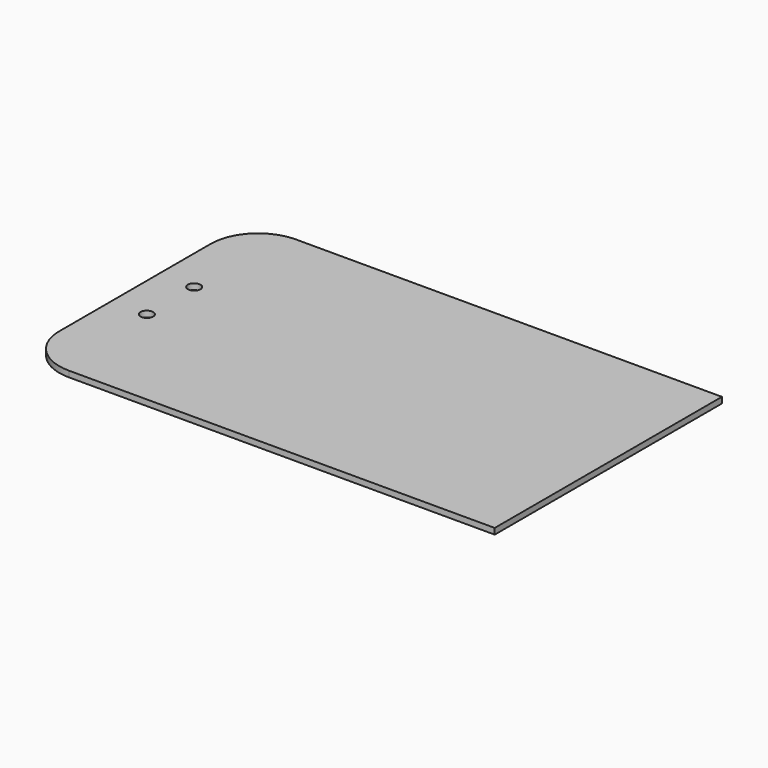
from build123d import *

# Parameters (mm, degrees)
F1_DEPTH = 3.175
F3_D     = 6.7564


with BuildPart() as f1:
    # F0 (on Top) → F1 (new body)
    with BuildSketch(Plane.XY):
        with BuildLine():
            Line((127, 76.2), (-101.6, 76.2))
            ThreePointArc((-101.6, 76.2), (-119.5605122421, 68.7605122421), (-127, 50.8))
            Line((-127, 50.8), (-127, -50.8))
            ThreePointArc((-127, -50.8), (-119.5605122421, -68.7605122421), (-101.6, -76.2))
            Line((-101.6, -76.2), (127, -76.2))
            Line((127, -76.2), (127, 76.2))
        make_face()
    extrude(amount=F1_DEPTH)

    # F3 (through all)
    with Locations(Plane.XY.offset(3.175)):
        with Locations((-107.95, 15.875), (-107.95, -15.875)):
            Hole(F3_D / 2)


solid = f1.part
